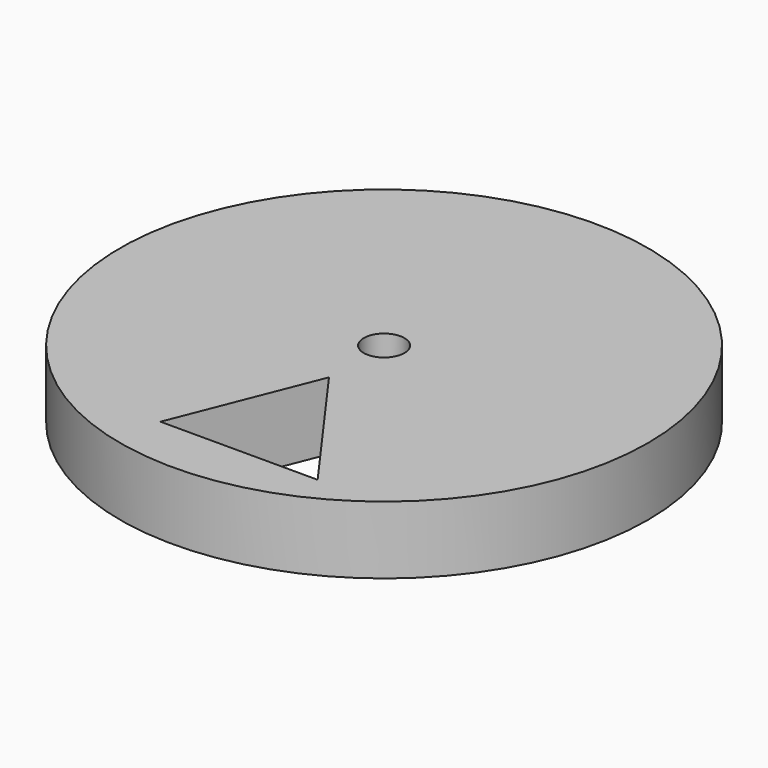
from build123d import *

# Parameters (mm, degrees)
F0_R     = 19.5
F0_R_2   = 1.5
F1_DEPTH = 5
F3_DEPTH = 5


with BuildPart() as f1:
    # F0 (on Top) → F1 (new body)
    with BuildSketch(Plane.XY):
        Circle(F0_R)
        Circle(F0_R_2, mode=Mode.SUBTRACT)
    extrude(amount=F1_DEPTH)

    # F2 (on face) → F3 (cut)
    with BuildSketch(Plane.XY.offset(5)):
        Polygon((7.483719, -15.492056), (0, -5.086189), (-4.127038, -15.492056), align=None)
    extrude(amount=-F3_DEPTH, mode=Mode.SUBTRACT)


solid = f1.part
